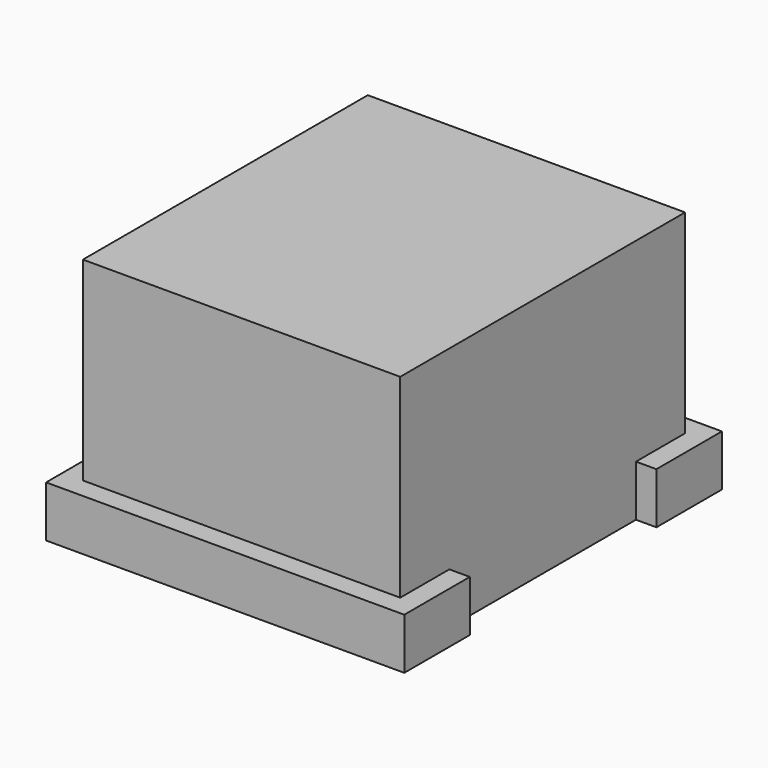
from build123d import *

# Parameters (mm, degrees)
F2_DEPTH = 127
F4_DEPTH = 609.6


with BuildPart() as f2:
    # F1 (on Top) → F2 (new body)
    with BuildSketch(Plane.XY):
        Polygon((422.536999, 742.405157), (-466.463001, 742.405157), (-466.463001, -242.869017), (422.536999, -242.869017), (422.536999, -39.669017), (371.736999, -39.669017), (371.736999, -192.069017), (-415.663001, -192.069017), (-415.663001, 691.605157), (371.736999, 691.605157), (371.736999, 539.205157), (422.536999, 539.205157), align=None)
    extrude(amount=F2_DEPTH)

    # F3 (on face) → F4 (join)
    with BuildSketch(Plane(origin=(0, 0, 0), x_dir=(1, 0, 0), z_dir=(0, 0, -1))):
        Polygon((371.736999, 39.669017), (371.736999, 192.069017), (-415.663001, 192.069017), (-415.663001, -691.605157), (371.736999, -691.605157), (371.736999, -539.205157), align=None)
    extrude(amount=-F4_DEPTH)


solid = f2.part
